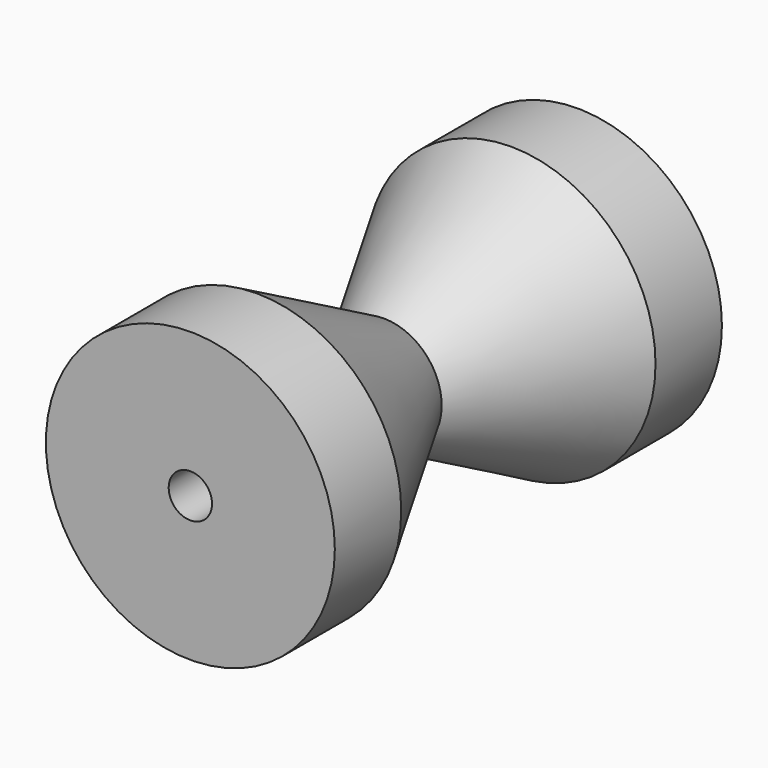
from build123d import *

# Parameters (mm, degrees)
F0_R     = 31.75
F1_DEPTH = 53.1622
F5_D     = 9.525


with BuildPart() as f1:
    # F0 (on Front) → F1 (new body, symmetric)
    with BuildSketch(Plane.XZ):
        Circle(F0_R)
    extrude(amount=F1_DEPTH, both=True)

    # F2 (on Right) → F3 (revolve, cut)
    with BuildSketch(Plane.YZ):
        Polygon((34.925, 31.75), (0, 31.75), (0, 12.7), align=None)
        Polygon((0, 12.7), (0, 31.75), (-34.925, 31.75), align=None)
    revolve(axis=Axis((0, 0, 0), (0, 1, 0)), mode=Mode.SUBTRACT)

    # F5 (through all)
    with Locations(Plane.XZ.offset(53.1622)):
        with Locations((0, 0)):
            Hole(F5_D / 2)


solid = f1.part
